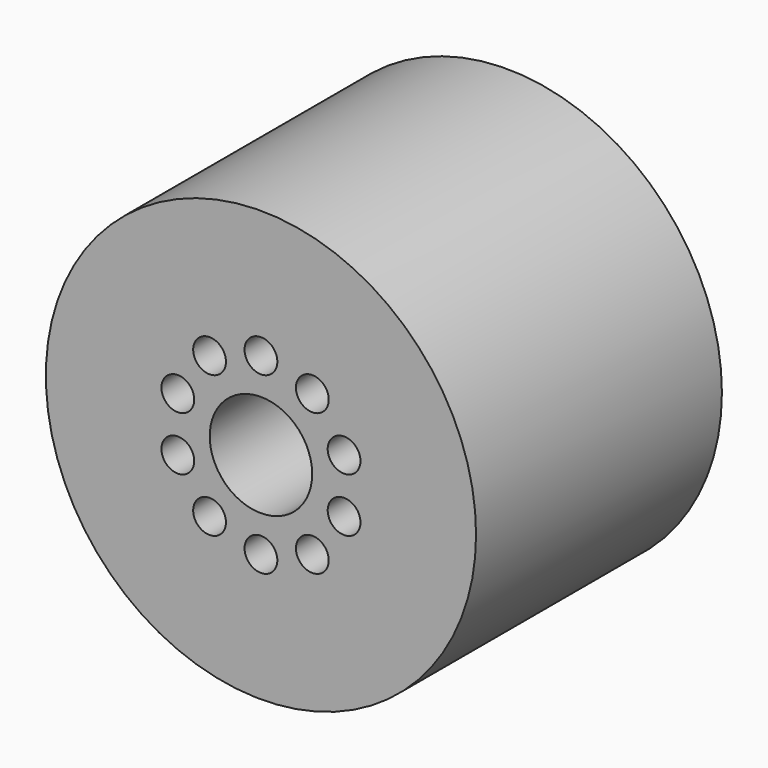
from build123d import *

# Parameters (mm, degrees)
F0_R     = 40
F0_R_2   = 3.048
F0_R_3   = 9.525
F1_DEPTH = 28.575


with BuildPart() as f1:
    # F0 (on Front) → F1 (new body, symmetric)
    with BuildSketch(Plane.XZ):
        Circle(F0_R)
        with Locations((-9.555037, -13.15138)):
            Circle(F0_R_2, mode=Mode.SUBTRACT)
        with Locations((-15.460375, -5.02338)):
            Circle(F0_R_2, mode=Mode.SUBTRACT)
        with Locations((0, -16.256)):
            Circle(F0_R_2, mode=Mode.SUBTRACT)
        with Locations((9.555037, -13.15138)):
            Circle(F0_R_2, mode=Mode.SUBTRACT)
        with Locations((15.460375, -5.02338)):
            Circle(F0_R_2, mode=Mode.SUBTRACT)
        with Locations((-15.460375, 5.02338)):
            Circle(F0_R_2, mode=Mode.SUBTRACT)
        with Locations((-9.555037, 13.15138)):
            Circle(F0_R_2, mode=Mode.SUBTRACT)
        Circle(F0_R_3, mode=Mode.SUBTRACT)
        with Locations((15.460375, 5.02338)):
            Circle(F0_R_2, mode=Mode.SUBTRACT)
        with Locations((9.555037, 13.15138)):
            Circle(F0_R_2, mode=Mode.SUBTRACT)
        with Locations((0, 16.256)):
            Circle(F0_R_2, mode=Mode.SUBTRACT)
    extrude(amount=F1_DEPTH, both=True)


solid = f1.part
